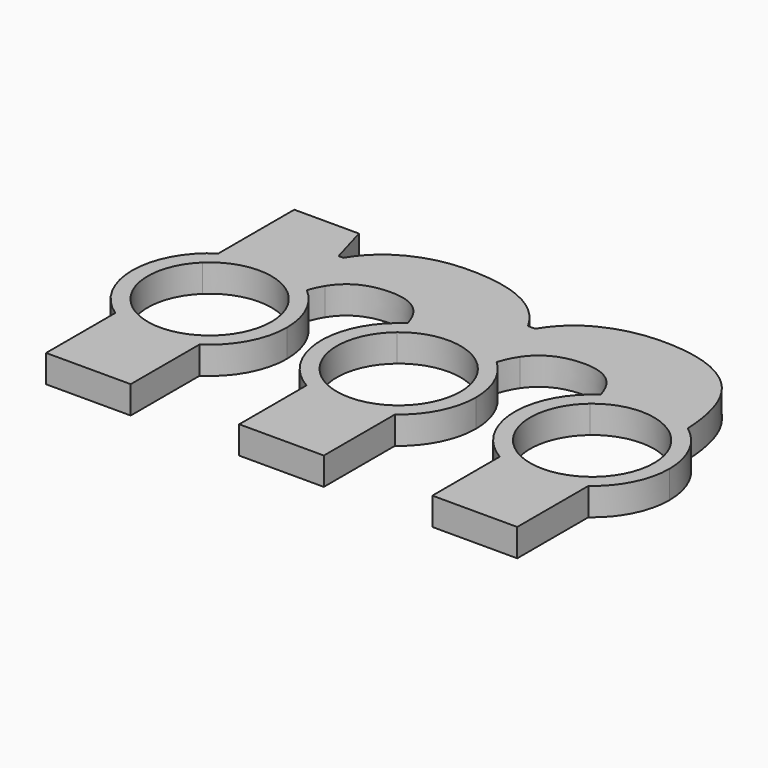
from build123d import *

# Parameters (mm, degrees)
F1_DEPTH = 5


with BuildPart() as f1:
    # F0 (on Top) → F1 (new body)
    with BuildSketch(Plane.XY):
        with BuildLine():
            ThreePointArc((-7.7347107175, 11.6693723103), (1.1336247824, 13.9540279078), (9.5168901863, 10.2678528029))
            add(Edge.make_bspline(
                [(11.1075389809, 13.5977625335), (10.1467025067, 12.2132719368), (9.5168901863, 10.2678528029)],
                knots=[0, 0, 0, 0.3445166401, 0.3445166401, 0.3445166401], degree=2))
            add(Edge.make_bspline(
                [(19.5225847934, 17.6164090534), (13.8964796656, 17.6164090534), (11.1075389809, 13.5977625335)],
                knots=[0, 0, 0, 1, 1, 1], degree=2))
            add(Edge.make_bspline(
                [(25.9283073461, 14.5783122844), (23.894872207, 17.6164090534), (19.5225847934, 17.6164090534)],
                knots=[0, 0, 0, 1, 1, 1], degree=2))
            add(Edge.make_bspline(
                [(27.2352844796, 11.642238171), (26.746339163, 13.35611455), (25.9283073461, 14.5783122844)],
                knots=[0.5977094124, 0.5977094124, 0.5977094124, 1, 1, 1], degree=2))
            ThreePointArc((27.2352844796, 11.642238171), (35.3144532315, 13.9967060767), (43.2839012969, 11.2940436167))
            add(Edge.make_bspline(
                [(38.4343353159, 24.9705321847), (42.858967955, 20.5458995456), (43.2839012969, 11.2940436167)],
                knots=[0, 0, 0, 0.9039618932, 0.9039618932, 0.9039618932], degree=2))
            add(Edge.make_bspline(
                [(23.9913197235, 29.8652436459), (33.5396238547, 29.8652436459), (38.4343353159, 24.9705321847)],
                knots=[0, 0, 0, 1, 1, 1], degree=2))
            add(Edge.make_bspline(
                [(14.0733001125, 27.7112491113), (18.4616621122, 29.8652436459), (23.9913197235, 29.8652436459)],
                knots=[0, 0, 0, 1, 1, 1], degree=2))
            add(Edge.make_bspline(
                [(7.4184214756, 21.6350555733), (9.6849381128, 25.5572545766), (14.0733001125, 27.7112491113)],
                knots=[0, 0, 0, 1, 1, 1], degree=2))
            Line((7.4184214756, 21.6350555733), (6.068156245, 21.6350555733))
            add(Edge.make_bspline(
                [(-11.0191287574, 29.8652436459), (1.5833467288, 29.8652436459), (6.068156245, 21.6350555733)],
                knots=[0, 0, 0, 1, 1, 1], degree=2))
            add(Edge.make_bspline(
                [(-20.8165889728, 27.6871372321), (-16.5487863688, 29.8652436459), (-11.0191287574, 29.8652436459)],
                knots=[0, 0, 0, 1, 1, 1], degree=2))
            add(Edge.make_bspline(
                [(-27.3509082141, 21.6350555733), (-25.0843915769, 25.5090308184), (-20.8165889728, 27.6871372321)],
                knots=[0, 0, 0, 1, 1, 1], degree=2))
            Line((-27.3509082141, 21.6350555733), (-28.2028612763, 21.6350555733))
            Line((-28.2028612763, 21.6350555733), (-30.2604082945, 28.8203955507))
            Line((-30.2604082945, 28.8203955507), (-41.9627069603, 28.8203955507))
            Line((-41.9627069603, 28.8203955507), (-41.9627069603, 11.673955213))
            ThreePointArc((-41.9627069603, 11.673955213), (-33.4069158912, 13.9754934651), (-25.1827411367, 10.6798010112))
            add(Edge.make_bspline(
                [(-23.9832824305, 13.292345398), (-24.672216421, 12.172567492), (-25.1827411367, 10.6798010112)],
                knots=[0, 0, 0, 0.2589642511, 0.2589642511, 0.2589642511], degree=2))
            add(Edge.make_bspline(
                [(-15.4396399293, 17.6164090534), (-21.3229384343, 17.6164090534), (-23.9832824305, 13.292345398)],
                knots=[0, 0, 0, 1, 1, 1], degree=2))
            add(Edge.make_bspline(
                [(-9.0339173766, 14.5783122844), (-11.0673525157, 17.6164090534), (-15.4396399293, 17.6164090534)],
                knots=[0, 0, 0, 1, 1, 1], degree=2))
            add(Edge.make_bspline(
                [(-7.7347107175, 11.6693723103), (-8.2223684807, 13.3658004953), (-9.0339173766, 14.5783122844)],
                knots=[0.6008975746, 0.6008975746, 0.6008975746, 1, 1, 1], degree=2))
        make_face()
        with BuildLine():
            ThreePointArc((-7.0004822376, -8.7426110769), (-11.1995369595, -0.1018424886), (-7.1583125196, 8.6138587097))
            add(Edge.make_bspline(
                [(-7.1583125196, 8.6138587097), (-7.3408988765, 10.2994084606), (-7.7347107175, 11.6693723103)],
                knots=[0.2785992893, 0.2785992893, 0.2785992893, 0.6008975746, 0.6008975746, 0.6008975746], degree=2))
            ThreePointArc((-7.7347107175, 11.6693723103), (-13.9933390581, -0.4318124639), (-7.0004822376, -12.1240772202))
            Line((-7.0004822376, -12.1240772202), (-7.0004822376, -8.7426110769))
        make_face()
        with BuildLine():
            Line((8.3185982961, -11.2605915648), (8.3185982961, -7.4993948015))
            ThreePointArc((8.3185982961, -7.4993948015), (0.9059548348, -11.1632990571), (-7.0004822376, -8.7426110769))
            Line((-7.0004822376, -8.7426110769), (-7.0004822376, -12.1240772202))
            ThreePointArc((-7.0004822376, -12.1240772202), (0.7878828309, -13.9778124413), (8.3185982961, -11.2605915648))
        make_face()
        with BuildLine():
            Line((8.3185982961, -27.3442082107), (8.3185982961, -11.2605915648))
            ThreePointArc((8.3185982961, -11.2605915648), (0.7878828309, -13.9778124413), (-7.0004822376, -12.1240772202))
            Line((-7.0004822376, -12.1240772202), (-7.0004822376, -27.3442082107))
            Line((-7.0004822376, -27.3442082107), (8.3185982961, -27.3442082107))
        make_face()
        with BuildLine():
            ThreePointArc((8.7512339046, 6.9896999325), (10.5700950737, 3.7031189738), (11.2, 0))
            ThreePointArc((11.2, 0), (10.454862527, -4.0169452998), (8.3185982961, -7.4993948015))
            Line((8.3185982961, -7.4993948015), (8.3185982961, -11.2605915648))
            ThreePointArc((8.3185982961, -11.2605915648), (12.4992074978, -6.3063310988), (14, 0))
            ThreePointArc((14, 0), (12.8303636466, 5.6019432964), (9.5168901863, 10.2678528029))
            add(Edge.make_bspline(
                [(9.5168901863, 10.2678528029), (9.0386147828, 8.7905140923), (8.7512339046, 6.9896999325)],
                knots=[0.3445166401, 0.3445166401, 0.3445166401, 0.6061403488, 0.6061403488, 0.6061403488], degree=2))
        make_face()
        with BuildLine():
            ThreePointArc((-7.1583125196, 8.6138587097), (1.1374632162, 11.1420903529), (8.7512339046, 6.9896999325))
            add(Edge.make_bspline(
                [(9.5168901863, 10.2678528029), (9.0386147828, 8.7905140923), (8.7512339046, 6.9896999325)],
                knots=[0.3445166401, 0.3445166401, 0.3445166401, 0.6061403488, 0.6061403488, 0.6061403488], degree=2))
            ThreePointArc((9.5168901863, 10.2678528029), (1.1336247824, 13.9540279078), (-7.7347107175, 11.6693723103))
            add(Edge.make_bspline(
                [(-7.1583125196, 8.6138587097), (-7.3408988765, 10.2994084606), (-7.7347107175, 11.6693723103)],
                knots=[0.2785992893, 0.2785992893, 0.2785992893, 0.6008975746, 0.6008975746, 0.6008975746], degree=2))
        make_face()
        with BuildLine():
            add(Edge.make_bspline(
                [(-25.1827411367, 10.6798010112), (-25.659071662, 9.2870178213), (-25.9800917253, 7.5695372303)],
                knots=[0.2589642511, 0.2589642511, 0.2589642511, 0.5005834596, 0.5005834596, 0.5005834596], degree=2))
            ThreePointArc((-25.1827411367, 10.6798010112), (-33.4069158912, 13.9754934651), (-41.9627069603, 11.673955213))
            Line((-41.9627069603, 11.673955213), (-41.9627069603, 8.1068631613))
            ThreePointArc((-41.9627069603, 8.1068631613), (-33.8585902643, 11.1936758818), (-25.9800917253, 7.5695372303))
        make_face()
        with BuildLine():
            ThreePointArc((-20.2349149287, 0), (-21.5319539926, 5.8851324077), (-25.1827411367, 10.6798010112))
            add(Edge.make_bspline(
                [(-25.1827411367, 10.6798010112), (-25.659071662, 9.2870178213), (-25.9800917253, 7.5695372303)],
                knots=[0.2589642511, 0.2589642511, 0.2589642511, 0.5005834596, 0.5005834596, 0.5005834596], degree=2))
            ThreePointArc((-25.9800917253, 7.5695372303), (-23.7971464919, 4.0611562468), (-23.0349149287, 0))
            ThreePointArc((-23.0349149287, 0), (-23.9766882003, -4.495418155), (-26.6436264266, -8.2348247631))
            Line((-26.6436264266, -8.2348247631), (-26.6436264266, -11.7631772442))
            ThreePointArc((-26.6436264266, -11.7631772442), (-21.9410538788, -6.6978340145), (-20.2349149287, 0))
        make_face()
        with BuildLine():
            Line((-41.9627069603, 8.1068631613), (-41.9627069603, 11.673955213))
            ThreePointArc((-41.9627069603, 11.673955213), (-48.2349149287, 0), (-41.9627069603, -11.673955213))
            Line((-41.9627069603, -11.673955213), (-41.9627069603, -8.1068631613))
            ThreePointArc((-41.9627069603, -8.1068631613), (-45.4349149287, 0), (-41.9627069603, 8.1068631613))
        make_face()
        with BuildLine():
            ThreePointArc((-41.9627069603, -11.673955213), (-34.3164529327, -13.9997625535), (-26.6436264266, -11.7631772442))
            Line((-26.6436264266, -11.7631772442), (-26.6436264266, -8.2348247631))
            ThreePointArc((-26.6436264266, -8.2348247631), (-34.3284662316, -11.1996092858), (-41.9627069603, -8.1068631613))
            Line((-41.9627069603, -8.1068631613), (-41.9627069603, -11.673955213))
        make_face()
        with BuildLine():
            Line((-26.6436264266, -27.3442082107), (-26.6436264266, -11.7631772442))
            ThreePointArc((-26.6436264266, -11.7631772442), (-34.3164529327, -13.9997625535), (-41.9627069603, -11.673955213))
            Line((-41.9627069603, -11.673955213), (-41.9627069603, -27.3442082107))
            Line((-41.9627069603, -27.3442082107), (-26.6436264266, -27.3442082107))
        make_face()
        with BuildLine():
            Line((27.9617424851, -8.7035111635), (27.9617424851, -12.0959128045))
            ThreePointArc((27.9617424851, -12.0959128045), (35.770433872, -13.9793748811), (43.329046777, -11.2608345517))
            Line((43.329046777, -11.2608345517), (43.329046777, -7.4997596496))
            ThreePointArc((43.329046777, -7.4997596496), (35.8854164475, -11.1657962797), (27.9617424851, -8.7035111635))
        make_face()
        with BuildLine():
            ThreePointArc((43.329046777, -11.2608345517), (35.770433872, -13.9793748811), (27.9617424851, -12.0959128045))
            Line((27.9617424851, -12.0959128045), (27.9617424851, -27.3442082107))
            Line((27.9617424851, -27.3442082107), (43.329046777, -27.3442082107))
            Line((43.329046777, -27.3442082107), (43.329046777, -11.2608345517))
        make_face()
        with BuildLine():
            add(Edge.make_bspline(
                [(27.8079140171, 8.576640303), (27.6274523087, 10.2675912402), (27.2352844796, 11.642238171)],
                knots=[0.275044646, 0.275044646, 0.275044646, 0.5977094124, 0.5977094124, 0.5977094124], degree=2))
            ThreePointArc((27.2352844796, 11.642238171), (21.0173286065, -0.4282411432), (27.9617424851, -12.0959128045))
            Line((27.9617424851, -12.0959128045), (27.9617424851, -8.7035111635))
            ThreePointArc((27.9617424851, -8.7035111635), (23.8112211661, -0.0996988125), (27.8079140171, 8.576640303))
        make_face()
        with BuildLine():
            ThreePointArc((49.0107774138, 0), (47.4972447758, 6.3315189977), (43.2839012969, 11.2940436167))
            add(Edge.make_bspline(
                [(43.2839012969, 11.2940436167), (43.329046777, 10.3111142096), (43.329046777, 9.2736988782)],
                knots=[0.9039618932, 0.9039618932, 0.9039618932, 1, 1, 1], degree=2))
            Line((43.329046777, 9.2736988782), (43.329046777, 7.4997596496))
            ThreePointArc((43.329046777, 7.4997596496), (45.4655518463, 4.017174575), (46.2107774138, 0))
            ThreePointArc((46.2107774138, 0), (45.4655518463, -4.017174575), (43.329046777, -7.4997596496))
            Line((43.329046777, -7.4997596496), (43.329046777, -11.2608345517))
            ThreePointArc((43.329046777, -11.2608345517), (47.5098928042, -6.3065136532), (49.0107774138, 0))
        make_face()
        with BuildLine():
            ThreePointArc((43.2839012969, 11.2940436167), (35.3144532315, 13.9967060767), (27.2352844796, 11.642238171))
            add(Edge.make_bspline(
                [(27.8079140171, 8.576640303), (27.6274523087, 10.2675912402), (27.2352844796, 11.642238171)],
                knots=[0.275044646, 0.275044646, 0.275044646, 0.5977094124, 0.5977094124, 0.5977094124], degree=2))
            ThreePointArc((27.8079140171, 8.576640303), (35.7859874518, 11.1731396392), (43.329046777, 7.4997596496))
            Line((43.329046777, 7.4997596496), (43.329046777, 9.2736988782))
            add(Edge.make_bspline(
                [(43.2839012969, 11.2940436167), (43.329046777, 10.3111142096), (43.329046777, 9.2736988782)],
                knots=[0.9039618932, 0.9039618932, 0.9039618932, 1, 1, 1], degree=2))
        make_face()
    extrude(amount=F1_DEPTH)


solid = f1.part
